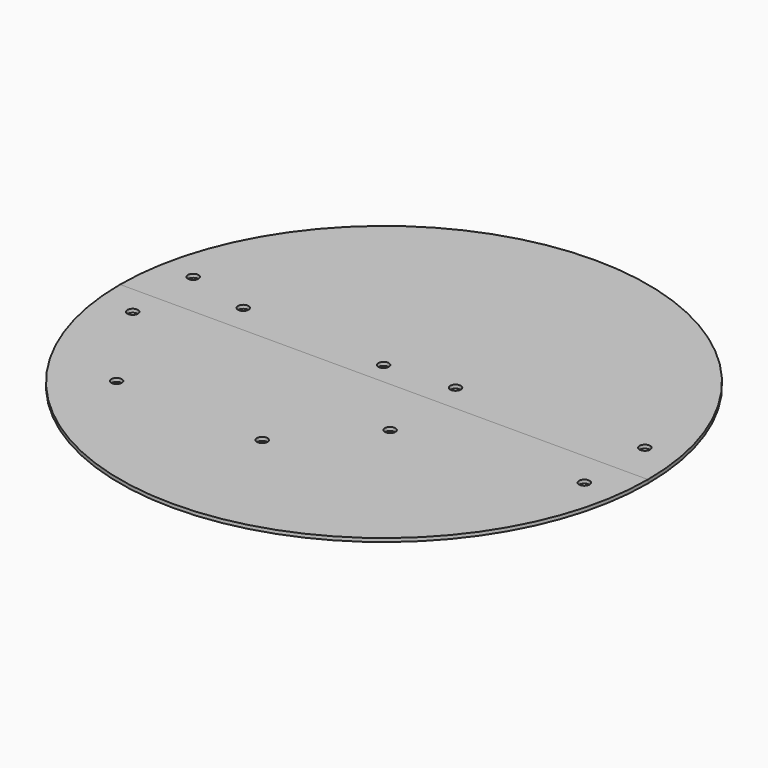
from build123d import *

# Parameters (mm, degrees)
F5_DEPTH = 1
F1_R     = 1.5
F3_R     = 1.5
F4_R     = 1.5
F2_R     = 1.5
F6_DEPTH = 5
F7_DEPTH = 25


with BuildPart() as f5:
    # F0 (on Top) → F5 (new body)
    with BuildSketch(Plane.XY):
        with BuildLine():
            ThreePointArc((-75, 0), (0, -75), (75, 0))
            Line((75, 0), (0, 0))
            Line((0, 0), (-75, 0))
        make_face()
    extrude(amount=F5_DEPTH)


with BuildPart() as f5b:
    # F1 (on face) → F5, piece 2 (new body)
    with BuildSketch(Plane.XY):
        with BuildLine():
            Line((-75, 0), (0, 0))
            Line((0, 0), (75, 0))
            ThreePointArc((75, 0), (0, 75), (-75, 0))
        make_face()
        with Locations((64.9220868945, 11.5)):
            Circle(F1_R, mode=Mode.SUBTRACT)
    extrude(amount=F5_DEPTH)


with BuildPart() as f6_tool:
    # F3 (on face) + F4 (on face) + F2 (on face) → F6 (new body)
    with BuildSketch(Plane.XY):
        with Locations((14.0932742506, 7.7815055847)):
            Circle(F3_R)
        with Locations((15.470101073, -17.1805525817)):
            Circle(F3_R)
    with BuildSketch(Plane.XY):
        with Locations((-46.644795686, 8.3047393709)):
            Circle(F4_R)
        with Locations((-5.1919909365, 6.3261089357)):
            Circle(F4_R)
        with Locations((-46.644795686, -36.6952606291)):
            Circle(F4_R)
        with Locations((-3.6891939548, -38.6487907444)):
            Circle(F4_R)
    with BuildSketch(Plane.XY):
        with Locations((-64.618964936, 13)):
            Circle(F2_R)
        with Locations((-64.618964936, -8.5)):
            Circle(F2_R)
    extrude(amount=F6_DEPTH)


with BuildPart() as f5_1:
    add(f5.part)

    # F6: cut by f6_tool
    add(f6_tool.part, mode=Mode.SUBTRACT)

    # F1 (on face) → F7 (cut)
    with BuildSketch(Plane.XY):
        with Locations((64.9220868945, 11.5)):
            Circle(F1_R)
        with Locations((64.9220868945, -10)):
            Circle(F1_R)
    extrude(amount=F7_DEPTH, mode=Mode.SUBTRACT)


with BuildPart() as f5b_1:
    add(f5b.part)

    # F6: cut by f6_tool
    add(f6_tool.part, mode=Mode.SUBTRACT)


solid = Compound([f5_1.part, f5b_1.part])
